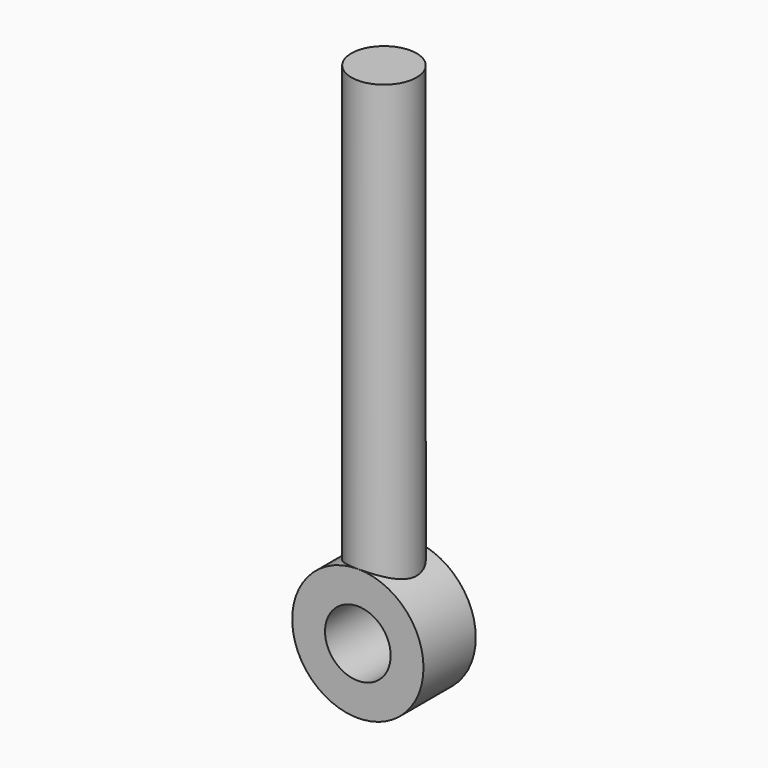
from build123d import *

# Parameters (mm, degrees)
F0_R     = 4
F0_R_2   = 2
F1_DEPTH = 1.9
F2_DEPTH = 1.99
F4_R     = 1.99
F5_DEPTH = 28


with BuildPart() as f1:
    # F0 (on Front) → F1 (new body, symmetric)
    with BuildSketch(Plane.XZ):
        Circle(F0_R)
        Circle(F0_R_2, mode=Mode.SUBTRACT)
    extrude(amount=F1_DEPTH, both=True)

    # F0 (on Front) → F2 (join, symmetric)
    with BuildSketch(Plane.XZ):
        Circle(F0_R)
        Circle(F0_R_2, mode=Mode.SUBTRACT)
    extrude(amount=F2_DEPTH, both=True)

    # F4 (on offset) → F5 (join)
    with BuildSketch(Plane.XY.offset(2.2)):
        Circle(F4_R)
    extrude(amount=F5_DEPTH)


solid = f1.part
